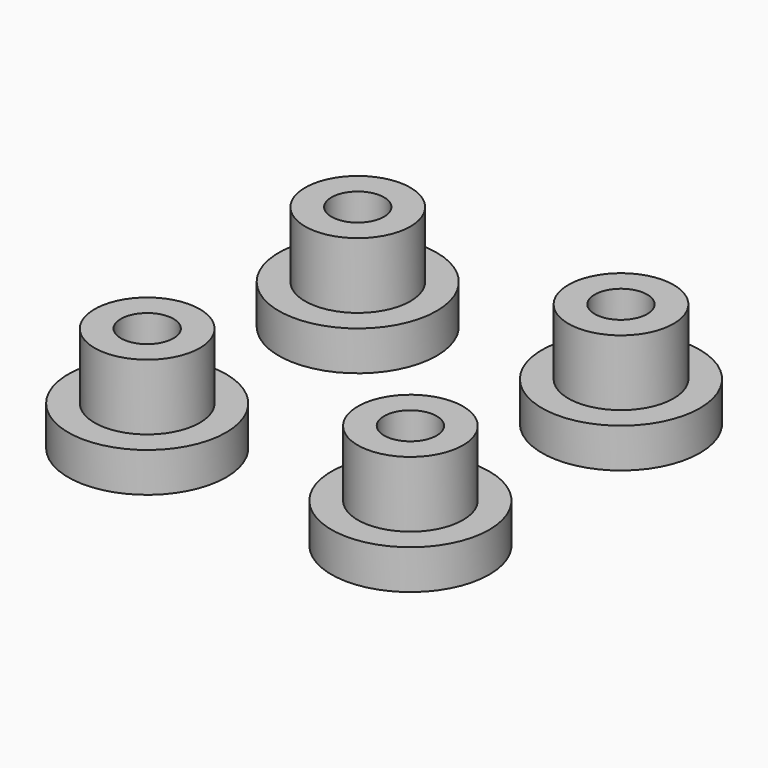
from build123d import *

# Parameters (mm, degrees)
F0_R     = 4
F0_R_2   = 2
F1_DEPTH = 8
F0_R_3   = 6
F2_DEPTH = 3


with BuildPart() as f1:
    # F0 (on Top) → F1 (new body)
    with BuildSketch(Plane.XY):
        Circle(F0_R)
        Circle(F0_R_2, mode=Mode.SUBTRACT)
    extrude(amount=F1_DEPTH)

    # F0 (on Top) → F2 (join)
    with BuildSketch(Plane.XY):
        Circle(F0_R_3)
        Circle(F0_R, mode=Mode.SUBTRACT)
    extrude(amount=F2_DEPTH)


with BuildPart() as f3_1:
    # F3: copy of F1
    add(f1.part.moved(Location((20, 0, 0))))


with BuildPart() as f4_1:
    # F4: copy of F3_1
    add(f3_1.part.moved(Location((0, 20, 0))))


with BuildPart() as f4_2:
    # F4: copy of F1
    add(f1.part.moved(Location((0, 20, 0))))


solid = Compound([f1.part, f3_1.part, f4_1.part, f4_2.part])
